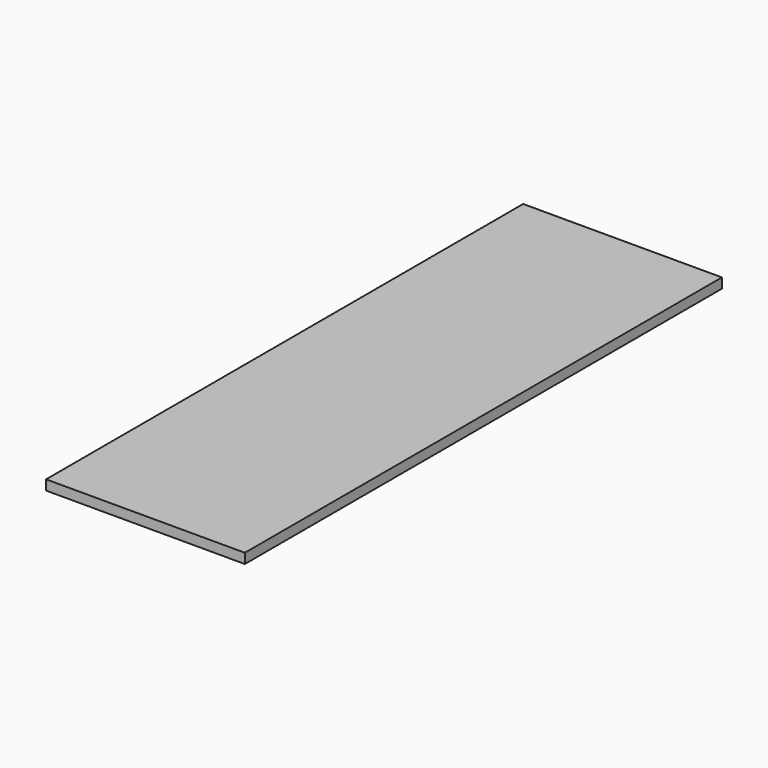
from build123d import *

# Parameters (mm, degrees)
SKETCH_W  = 200
SKETCH_H  = 600
PAD_DEPTH = 10


with BuildPart() as part:
    # Sketch → Pad (new body)
    with BuildSketch(Plane.XY):
        with Locations((100, 300)):
            Rectangle(SKETCH_W, SKETCH_H)
    extrude(amount=PAD_DEPTH)


solid = part.part
